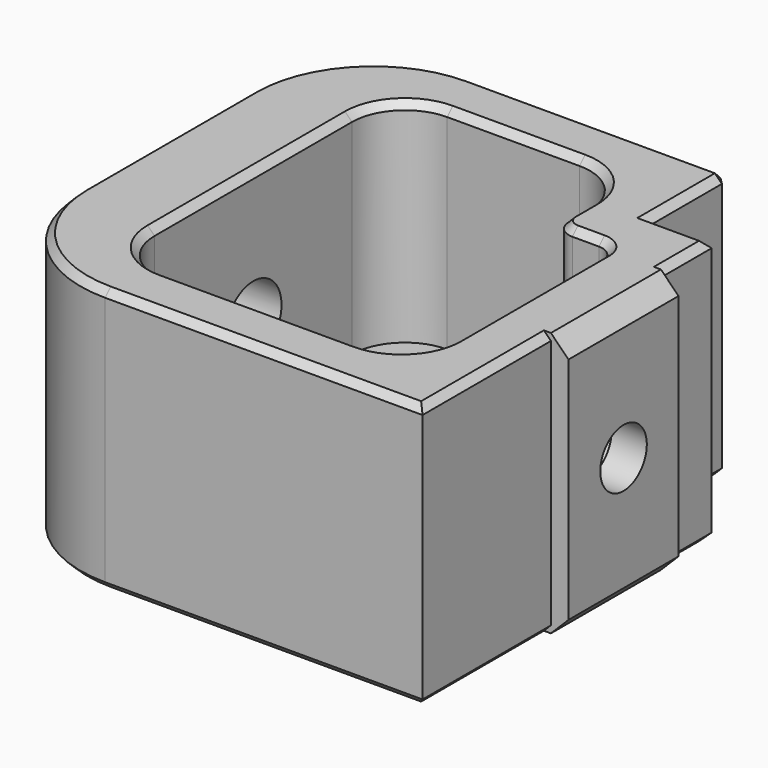
from build123d import *

# Parameters (mm, degrees)
CYLINDER016027_R            = 3
CYLINDER016027_DEPTH        = 3
CYLINDER016026_R            = 1.65
CYLINDER016026_DEPTH        = 15
CYLINDER016025_R            = 2
CYLINDER016025_DEPTH        = 15
BOX031_W                    = 10
BOX031_H                    = 10
BOX031_DEPTH                = 42
BOX032_W                    = 10
BOX032_H                    = 10
BOX032_DEPTH                = 42
BOX029_W                    = 17
BOX029_H                    = 20
BOX029_DEPTH                = 32
FILLET007_R                 = 3
FILLET008_R                 = 1
BOX025_W                    = 25
BOX025_H                    = 26
BOX025_DEPTH                = 15
FILLET008003_R              = 7
CHAMFER016016008004014_SIZE = 0.4
BOX026_W                    = 2
BOX026_H                    = 7.8
BOX026_DEPTH                = 15
CHAMFER016016008004011_SIZE = 1
CHAMFER016016008004015_SIZE = 0.4


with BuildPart() as cylinder041:
    # Cylinder016027 → Cylinder016027 (new body)
    with BuildSketch(Plane(origin=(21, 15, 11.5), x_dir=(0, 0, -1), z_dir=(1, 0, 0))):
        Circle(CYLINDER016027_R)
    extrude(amount=CYLINDER016027_DEPTH)


with BuildPart() as cylinder040:
    # Cylinder016026 → Cylinder016026 (new body)
    with BuildSketch(Plane(origin=(20.5, 15, 11.5), x_dir=(0, 0, -1), z_dir=(1, 0, 0))):
        Circle(CYLINDER016026_R)
    extrude(amount=CYLINDER016026_DEPTH)


with BuildPart() as cylinder039:
    # Cylinder016025 → Cylinder016025 (new body)
    with BuildSketch(Plane(origin=(-2, 15, 11.5), x_dir=(0, 0, -1), z_dir=(1, 0, 0))):
        Circle(CYLINDER016025_R)
    extrude(amount=CYLINDER016025_DEPTH)


with BuildPart() as cube031:
    # Box031 → Box031 (new body)
    with BuildSketch(Plane(origin=(21.5, 22.5, 0), x_dir=(1, 0, 0), z_dir=(0, 0, 1))):
        with Locations((5, 5)):
            Rectangle(BOX031_W, BOX031_H)
    extrude(amount=BOX031_DEPTH)


with BuildPart() as cube032:
    # Box032 → Box032 (new body)
    with BuildSketch(Plane(origin=(18.5, 19.5, 0), x_dir=(1, 0, 0), z_dir=(0, 0, 1))):
        with Locations((5, 5)):
            Rectangle(BOX032_W, BOX032_H)
    extrude(amount=BOX032_DEPTH)


with BuildPart() as inner_cut:
    # Box029 → Box029 (new body)
    with BuildSketch(Plane(origin=(5, 5, 4), x_dir=(1, 0, 0), z_dir=(0, 0, 1))):
        with Locations((8.5, 10)):
            Rectangle(BOX029_W, BOX029_H)
    extrude(amount=BOX029_DEPTH)

    # Cut010011008009003005: cut Cube032
    add(cube032.part, mode=Mode.SUBTRACT)

    # Fillet007
    fillet007_edges = [inner_cut.edges().sort_by_distance(p)[0] for p in [
        (5, 5, 20),
        (5, 25, 20),
        (22, 5, 20),
        (18.5, 25, 20),
    ]]
    fillet(fillet007_edges, radius=FILLET007_R)

    # Fillet008
    fillet008_edges = [inner_cut.edges().sort_by_distance(p)[0] for p in [
        (18.5, 19.5, 20),
        (22, 19.5, 20),
    ]]
    fillet(fillet008_edges, radius=FILLET008_R)


with BuildPart() as inner_cut_1:
    # Fillet008 placement: moved
    add(inner_cut.part.moved(Location((0, 0, 3))))


with BuildPart() as chamfer016016008004014:
    # Box025 → Box025 (new body)
    with BuildSketch(Plane(origin=(0, 2, 4), x_dir=(1, 0, 0), z_dir=(0, 0, 1))):
        with Locations((12.5, 13)):
            Rectangle(BOX025_W, BOX025_H)
    extrude(amount=BOX025_DEPTH)

    # Cut010011008009003009: cut inner-cut
    add(inner_cut_1.part, mode=Mode.SUBTRACT)

    # Fillet008003
    fillet008003_edges = [chamfer016016008004014.edges().sort_by_distance(p)[0] for p in [
        (0, 2, 11.5),
        (0, 28, 11.5),
    ]]
    fillet(fillet008003_edges, radius=FILLET008003_R)

    # Cut010011008009003010: cut Cube031
    add(cube031.part, mode=Mode.SUBTRACT)

    # Chamfer016016008004014
    chamfer016016008004014_edges = [chamfer016016008004014.edges().sort_by_distance(p)[0] for p in [
        (0, 15, 19),
        (0, 15, 4),
        (2.050253, 25.949747, 19),
        (14.25, 28, 19),
        (21.5, 25.25, 19),
        (23.25, 22.5, 19),
        (25, 12.25, 19),
        (16, 2, 19),
        (2.050253, 4.050253, 19),
        (18.5, 21.25, 19),
        (18.792893, 19.792893, 19),
        (17.62132, 24.12132, 19),
        (20.25, 19.5, 19),
        (11.75, 25, 19),
        (21.707107, 19.207107, 19),
        (5.87868, 24.12132, 19),
        (22, 13.25, 19),
        (5, 15, 19),
        (21.12132, 5.87868, 19),
        (5.87868, 5.87868, 19),
        (13.5, 5, 19),
        (2.050253, 4.050253, 4),
        (2.050253, 25.949747, 4),
        (14.25, 28, 4),
        (21.5, 25.25, 4),
        (23.25, 22.5, 4),
        (25, 12.25, 4),
        (16, 2, 4),
        (21.5, 28, 11.5),
    ]]
    chamfer(chamfer016016008004014_edges, length=CHAMFER016016008004014_SIZE)


with BuildPart() as obj1:
    # Box026 → Box026 (new body)
    with BuildSketch(Plane(origin=(24, 11.1, 4), x_dir=(1, 0, 0), z_dir=(0, 0, 1))):
        with Locations((1, 3.9)):
            Rectangle(BOX026_W, BOX026_H)
    extrude(amount=BOX026_DEPTH)

    # Chamfer016016008004011
    chamfer016016008004011_edges = [obj1.edges().sort_by_distance(p)[0] for p in [
        (26, 15, 19),
        (26, 15, 4),
    ]]
    chamfer(chamfer016016008004011_edges, length=CHAMFER016016008004011_SIZE)

    # Fusion018007003006: union Chamfer016016008004014
    add(chamfer016016008004014.part)

    # Cut010011008009003011: cut Cylinder039
    add(cylinder039.part, mode=Mode.SUBTRACT)

    # Chamfer016016008004015
    chamfer016016008004015_edges = [obj1.edges().sort_by_distance(p)[0] for p in [
        (0, 15, 13.5),
    ]]
    chamfer(chamfer016016008004015_edges, length=CHAMFER016016008004015_SIZE)

    # Cut010011008009003012: cut Cylinder040
    add(cylinder040.part, mode=Mode.SUBTRACT)

    # Cut010011008009003013: cut Cylinder041
    add(cylinder041.part, mode=Mode.SUBTRACT)


solid = obj1.part
